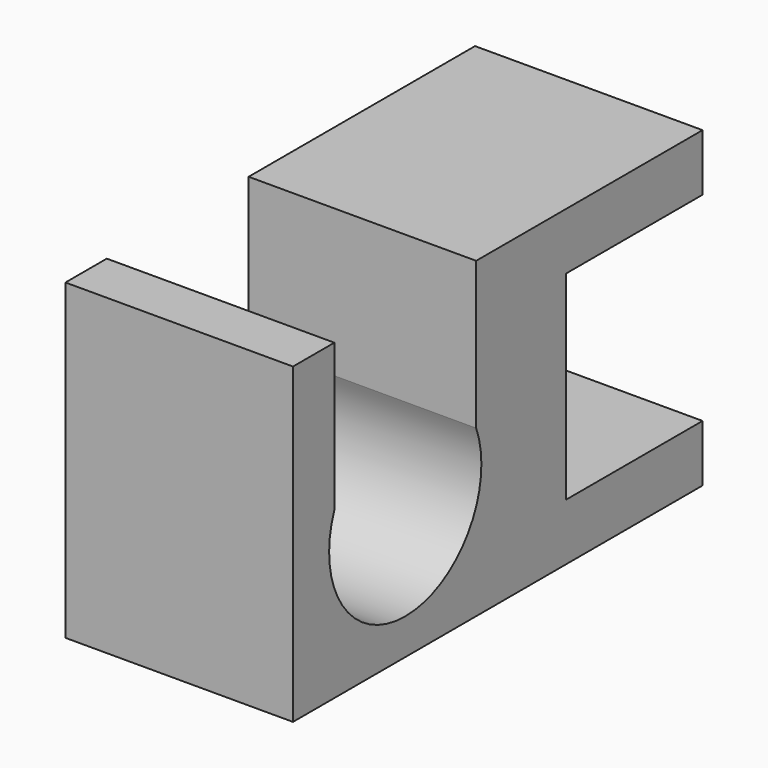
from build123d import *

# Parameters (mm, degrees)
F0_W     = 25.4
F0_H     = 31.75
F2_DEPTH = 6.35
F1_W     = 25.4
F1_H     = 12.7
F3_DEPTH = 28.575
F4_W     = 25.4
F4_H     = 31.75
F5_DEPTH = 6.35
F6_W     = 25.4
F6_H     = 34.925
F7_DEPTH = 25.4
F8_W     = 19.7909511626
F8_H     = 16.4385318786
F9_DEPTH = 33.782


with BuildPart() as f2:
    # F0 (on Top) → F2 (new body)
    with BuildSketch(Plane.XY):
        with Locations((-12.7, -7.5953084708)):
            Rectangle(F0_W, F0_H)
    extrude(amount=F2_DEPTH)

    # F1 (on face) → F3 (join)
    with BuildSketch(Plane.XY):
        with Locations((-12.7, -17.1203084708)):
            Rectangle(F1_W, F1_H)
    extrude(amount=F3_DEPTH)

    # F4 (on face) → F5 (join)
    with BuildSketch(Plane.XY.offset(28.575)):
        with Locations((-12.7, -7.5953084708)):
            Rectangle(F4_W, F4_H)
    extrude(amount=F5_DEPTH)

    # F6 (on Right) → F7 (join)
    with BuildSketch(Plane.YZ):
        with Locations((-36.1703084708, 17.4625)):
            Rectangle(F6_W, F6_H)
    extrude(amount=-F7_DEPTH)

    # F8 (on face) → F9 (cut)
    with BuildSketch(Plane.YZ):
        with Locations((-33.2048367709, 26.7057340607)):
            Rectangle(F8_W, F8_H)
        with BuildLine():
            Line((-23.3093611896, 18.4864681214), (-43.1003123522, 18.4864681214))
            ThreePointArc((-43.1003123522, 18.4864681214), (-33.2048367709, 4.0030932476), (-23.3093611896, 18.4864681214))
        make_face()
    extrude(amount=-F9_DEPTH, mode=Mode.SUBTRACT)


solid = f2.part
